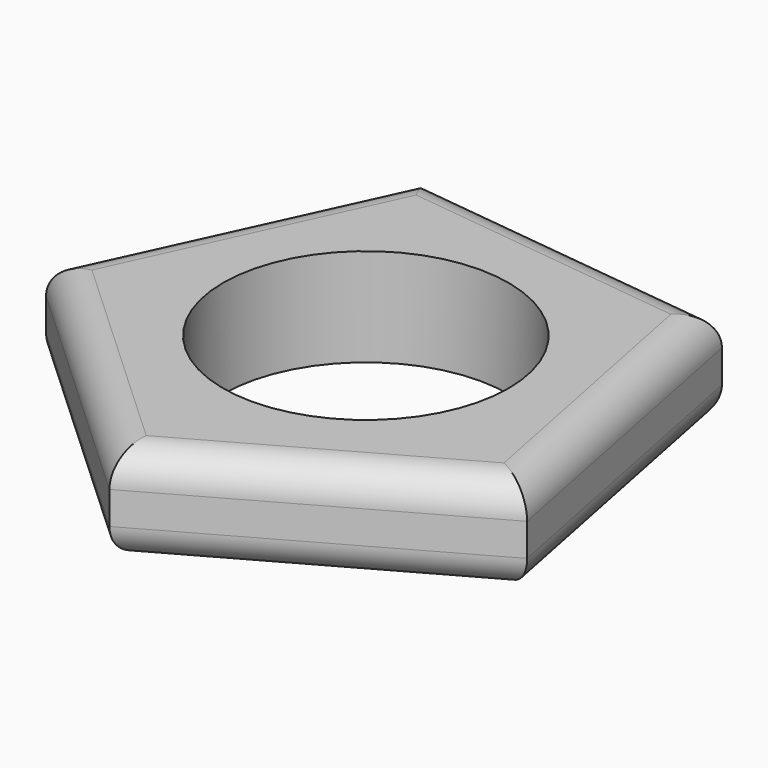
from build123d import *

# Parameters (mm, degrees)
F0_R     = 11.1125
F1_DEPTH = 7.62
F2_R     = 2.54


with BuildPart() as f1:
    # F0 (on Top) → F1 (new body)
    with BuildSketch(Plane.XY):
        Polygon((-2.56667, -21.73599), (19.87901, -9.157839), (14.852574, 16.076135), (-10.699615, 19.093436), (-21.4653, -4.275742), align=None)
        Circle(F0_R, mode=Mode.SUBTRACT)
    extrude(amount=F1_DEPTH)

    # F2
    f2_edges = [f1.edges().sort_by_distance(p)[0] for p in [
        (-12.015985, -13.005866, 7.62),
        (8.65617, -15.446914, 7.62),
        (17.365792, 3.459148, 7.62),
        (2.07648, 17.584785, 7.62),
        (-16.082457, 7.408847, 7.62),
        (8.65617, -15.446914, 0),
        (-12.015985, -13.005866, 0),
        (-16.082457, 7.408847, 0),
        (2.07648, 17.584785, 0),
        (17.365792, 3.459148, 0),
    ]]
    fillet(f2_edges, radius=F2_R)


solid = f1.part
